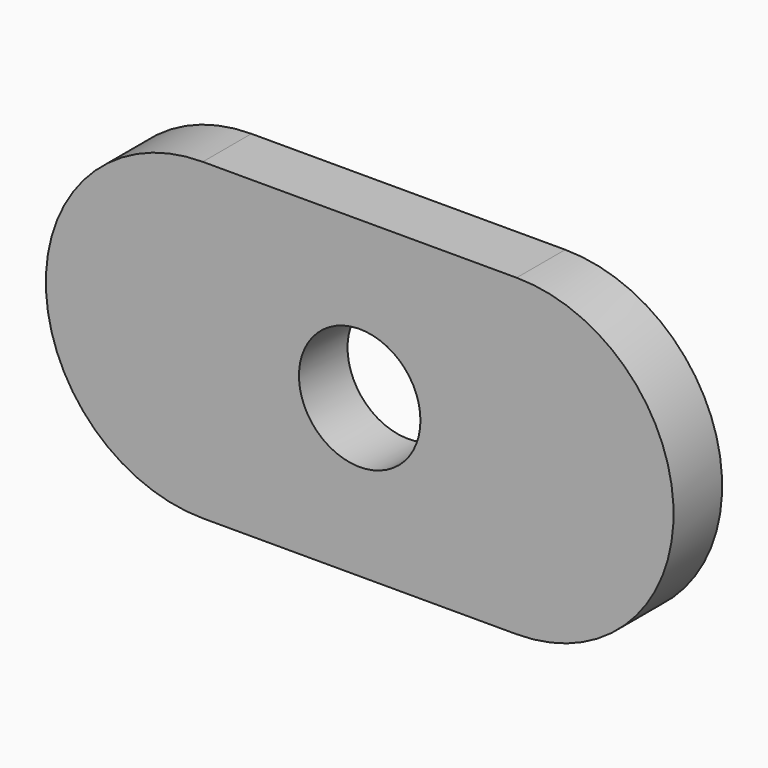
from build123d import *

# Parameters (mm, degrees)
F0_R     = 3
F1_DEPTH = 3


with BuildPart() as f1:
    # F0 (on Front) → F1 (new body)
    with BuildSketch(Plane.XZ):
        with BuildLine():
            Line((-7.75, -7.75), (7.75, -7.75))
            ThreePointArc((7.75, -7.75), (15.5, 0), (7.75, 7.75))
            Line((7.75, 7.75), (-7.75, 7.75))
            ThreePointArc((-7.75, 7.75), (-15.5, 0), (-7.75, -7.75))
        make_face()
        Circle(F0_R, mode=Mode.SUBTRACT)
    extrude(amount=F1_DEPTH)


solid = f1.part
